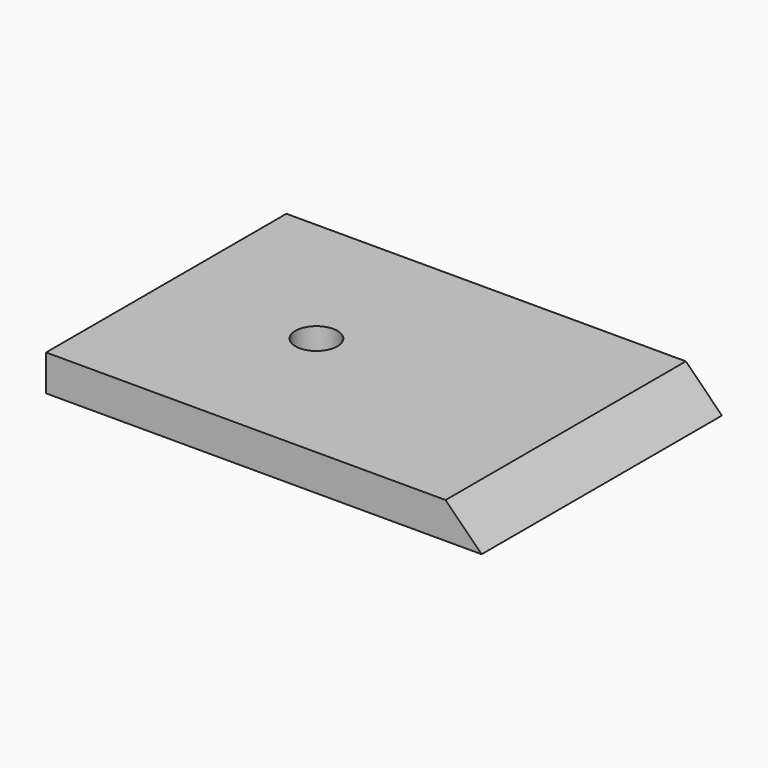
from build123d import *

# Parameters (mm, degrees)
F1_DEPTH = 100
F2_R     = 7
F3_DEPTH = 12.001


with BuildPart() as f1:
    # F0 (on Front) → F1 (new body)
    with BuildSketch(Plane.XZ):
        Polygon((0, 12), (0, 0), (145, 0), (133, 12), align=None)
    extrude(amount=F1_DEPTH)

    # F2 (on Top) → F3 (cut, through all)
    with BuildSketch(Plane.XY):
        with Locations((50, -50)):
            Circle(F2_R)
    extrude(amount=F3_DEPTH, mode=Mode.SUBTRACT)


solid = f1.part
